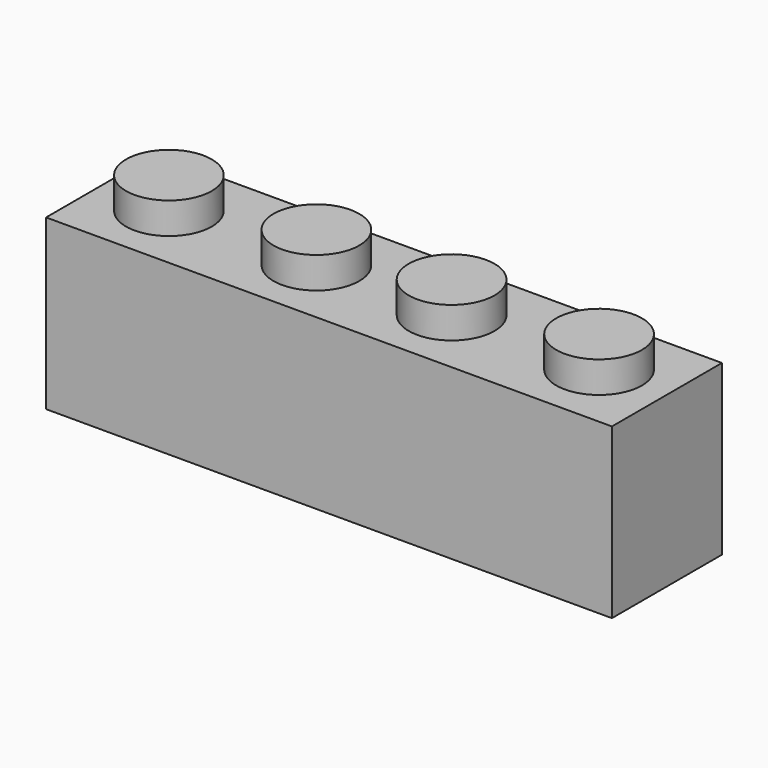
from build123d import *

# Parameters (mm, degrees)
F0_W     = 31.6738
F0_H     = 7.6962
F1_DEPTH = 9.4488
F2_R     = 2.4003
F3_DEPTH = 1.7526
F4_W     = 29.3116
F4_H     = 6.1722
F5_DEPTH = 8.128
F6_R     = 1.4605
F7_DEPTH = 8.128


with BuildPart() as f1:
    # F0 (on Top) → F1 (new body)
    with BuildSketch(Plane.XY):
        Rectangle(F0_W, F0_H)
    extrude(amount=F1_DEPTH)

    # F2 (on face) → F3 (join)
    with BuildSketch(Plane.XY.offset(9.4488)):
        with Locations((-12.0396, 0)):
            Circle(F2_R)
        with Locations((-3.7846, 0)):
            Circle(F2_R)
        with Locations((3.7846, 0)):
            Circle(F2_R)
        with Locations((12.0396, 0)):
            Circle(F2_R)
    extrude(amount=F3_DEPTH)

    # F4 (on face) → F5 (cut)
    with BuildSketch(Plane(origin=(0, 0, 0), x_dir=(1, 0, 0), z_dir=(0, 0, -1))):
        Rectangle(F4_W, F4_H)
    extrude(amount=-F5_DEPTH, mode=Mode.SUBTRACT)

    # F6 (on face) → F7 (join)
    with BuildSketch(Plane(origin=(0, 0, 8.128), x_dir=(1, 0, 0), z_dir=(0, 0, -1))):
        Circle(F6_R)
        with Locations((8.731115, 0)):
            Circle(F6_R)
        with Locations((-8.370964, 0)):
            Circle(F6_R)
    extrude(amount=F7_DEPTH)


solid = f1.part
